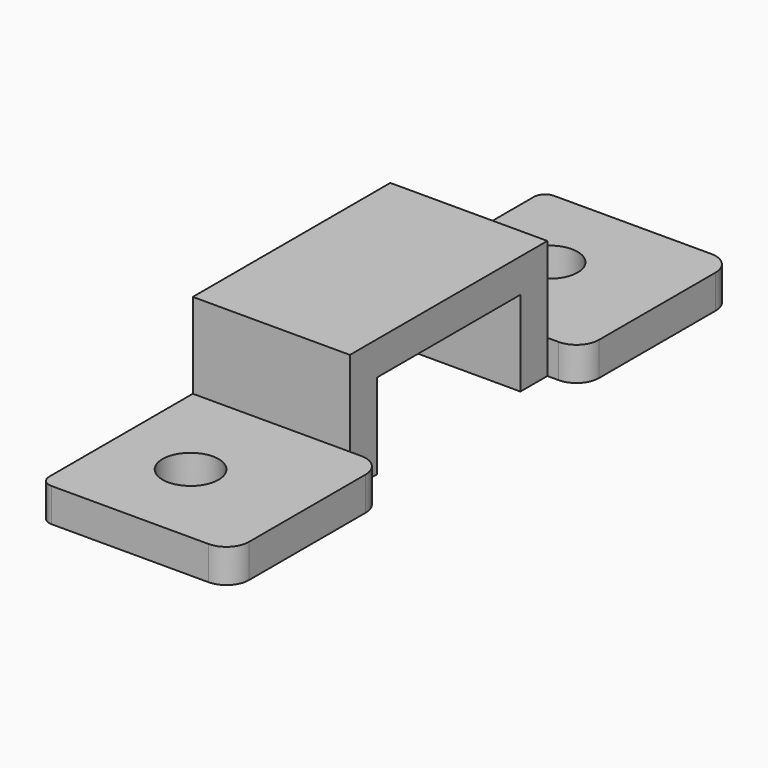
from build123d import *

# Parameters (mm, degrees)
SKETCH_W     = 14
SKETCH_H     = 22
PAD_DEPTH    = 3
SKETCH001_W  = 14
SKETCH001_H  = 3
PAD001_DEPTH = 7.6
SKETCH002_W  = 17
SKETCH002_H  = 17
SKETCH002_R  = 2.5
PAD002_DEPTH = 3
FILLET_R     = 2
FILLET001_R  = 1


with BuildPart() as part:
    # Sketch → Pad (new body)
    with BuildSketch(Plane.XY):
        with Locations((7, 11)):
            Rectangle(SKETCH_W, SKETCH_H)
    extrude(amount=PAD_DEPTH)

    # Sketch001 → Pad001 (join)
    with BuildSketch(Plane.XY):
        with Locations((7, 20.5)):
            Rectangle(SKETCH001_W, SKETCH001_H)
        with Locations((7, 1.5)):
            Rectangle(SKETCH001_W, SKETCH001_H)
    extrude(amount=-PAD001_DEPTH)

    # Sketch002 → Pad002 (join)
    with BuildSketch(Plane.XY.offset(-4.6)):
        with Locations((8.5, 30.5)):
            Rectangle(SKETCH002_W, SKETCH002_H)
        with Locations((7, 31)):
            Circle(SKETCH002_R, mode=Mode.SUBTRACT)
        with Locations((8.5, -8.5)):
            Rectangle(SKETCH002_W, SKETCH002_H)
        with Locations((7, -9)):
            Circle(SKETCH002_R, mode=Mode.SUBTRACT)
    extrude(amount=-PAD002_DEPTH)

    # Fillet
    fillet_edges = [part.edges().sort_by_distance(p)[0] for p in [
        (17, -17, -6.1),
        (17, 0, -6.1),
        (17, 22, -6.1),
        (17, 39, -6.1),
    ]]
    fillet(fillet_edges, radius=FILLET_R)

    # Fillet001
    fillet001_edges = [part.edges().sort_by_distance(p)[0] for p in [
        (0, -17, -6.1),
        (0, 39, -6.1),
    ]]
    fillet(fillet001_edges, radius=FILLET001_R)


solid = part.part
